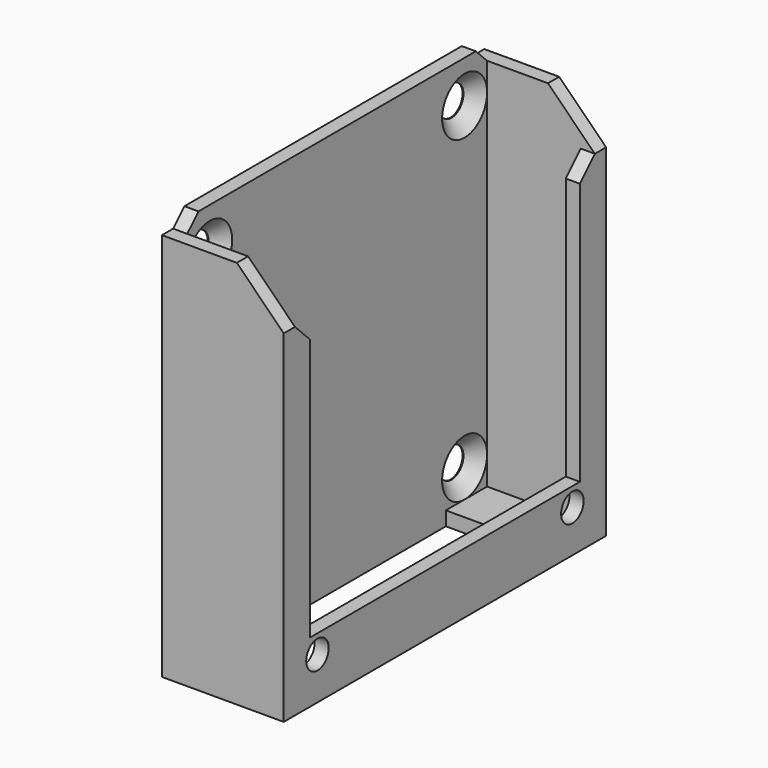
from build123d import *

# Parameters (mm, degrees)
CYLINDER004_R     = 1.5
CYLINDER004_DEPTH = 5
CYLINDER005_R     = 1.5
CYLINDER005_DEPTH = 5
BOX006_W          = 13
BOX006_H          = 1.5
BOX006_DEPTH      = 41.5
CHAMFER002_SIZE   = 5
BOX007_W          = 13
BOX007_H          = 1.5
BOX007_DEPTH      = 41.5
CHAMFER003_SIZE   = 5
CYLINDER001_R     = 1.6
CYLINDER001_DEPTH = 10
CYLINDER002_R     = 1.6
CYLINDER002_DEPTH = 10
CYLINDER_R        = 1.6
CYLINDER_DEPTH    = 10
CYLINDER003_R     = 1.6
CYLINDER003_DEPTH = 10
BOX002_W          = 7.5
BOX002_H          = 42
BOX002_DEPTH      = 43
CHAMFER_SIZE      = 1.4
BOX_W             = 1.5
BOX_H             = 40
BOX_DEPTH         = 43
CHAMFER001_SIZE   = 1.5
BOX005_W          = 1.5
BOX005_H          = 43
BOX005_DEPTH      = 6.5
BOX008_W          = 1.5
BOX008_H          = 3.5
BOX008_DEPTH      = 36.5
CHAMFER004_SIZE   = 2
BOX004_W          = 13
BOX004_H          = 7
BOX004_DEPTH      = 1.5
BOX003_W          = 13
BOX003_H          = 7
BOX003_DEPTH      = 1.5
BOX009_W          = 1.5
BOX009_H          = 3.5
BOX009_DEPTH      = 36.5
CHAMFER005_SIZE   = 2


with BuildPart() as cylinder004:
    # Cylinder004 → Cylinder004 (new body)
    with BuildSketch(Plane(origin=(9.5, 3, 4.5), x_dir=(0, 0, -1), z_dir=(1, 0, 0))):
        Circle(CYLINDER004_R)
    extrude(amount=CYLINDER004_DEPTH)


with BuildPart() as fusion002:
    # Cylinder005 → Cylinder005 (new body)
    with BuildSketch(Plane(origin=(9.5, 37, 4.5), x_dir=(0, 0, -1), z_dir=(1, 0, 0))):
        Circle(CYLINDER005_R)
    extrude(amount=CYLINDER005_DEPTH)

    # Fusion002: union Cylinder004
    add(cylinder004.part)


with BuildPart() as chamfer002:
    # Box006 → Box006 (new body)
    with BuildSketch(Plane(origin=(0, -1.5, 0), x_dir=(1, 0, 0), z_dir=(0, 0, 1))):
        with Locations((6.5, 0.75)):
            Rectangle(BOX006_W, BOX006_H)
    extrude(amount=BOX006_DEPTH)

    # Chamfer002
    chamfer002_edges = [chamfer002.edges().sort_by_distance(p)[0] for p in [
        (13, -0.75, 41.5),
    ]]
    chamfer(chamfer002_edges, length=CHAMFER002_SIZE)


with BuildPart() as chamfer003:
    # Box007 → Box007 (new body)
    with BuildSketch(Plane(origin=(0, 40, 0), x_dir=(1, 0, 0), z_dir=(0, 0, 1))):
        with Locations((6.5, 0.75)):
            Rectangle(BOX007_W, BOX007_H)
    extrude(amount=BOX007_DEPTH)

    # Chamfer003
    chamfer003_edges = [chamfer003.edges().sort_by_distance(p)[0] for p in [
        (13, 40.75, 41.5),
    ]]
    chamfer(chamfer003_edges, length=CHAMFER003_SIZE)


with BuildPart() as cylinder001:
    # Cylinder001 → Cylinder001 (new body)
    with BuildSketch(Plane(origin=(0, 37, 4.5), x_dir=(0, 0, -1), z_dir=(1, 0, 0))):
        Circle(CYLINDER001_R)
    extrude(amount=CYLINDER001_DEPTH)


with BuildPart() as cylinder002:
    # Cylinder002 → Cylinder002 (new body)
    with BuildSketch(Plane(origin=(0, 3, 38.5), x_dir=(0, 0, -1), z_dir=(1, 0, 0))):
        Circle(CYLINDER002_R)
    extrude(amount=CYLINDER002_DEPTH)


with BuildPart() as cylinder:
    # Cylinder → Cylinder (new body)
    with BuildSketch(Plane(origin=(0, 3, 4.5), x_dir=(0, 0, -1), z_dir=(1, 0, 0))):
        Circle(CYLINDER_R)
    extrude(amount=CYLINDER_DEPTH)


with BuildPart() as fusion:
    # Cylinder003 → Cylinder003 (new body)
    with BuildSketch(Plane(origin=(0, 37, 38.5), x_dir=(0, 0, -1), z_dir=(1, 0, 0))):
        Circle(CYLINDER003_R)
    extrude(amount=CYLINDER003_DEPTH)

    # Fusion: union Cylinder001, Cylinder002, Cylinder
    add(cylinder001.part)
    add(cylinder002.part)
    add(cylinder.part)


with BuildPart() as chamfer_body:
    # Box002 → Box002 (new body)
    with BuildSketch(Plane(origin=(0, -1, 0), x_dir=(1, 0, 0), z_dir=(0, 0, 1))):
        with Locations((3.75, 21)):
            Rectangle(BOX002_W, BOX002_H)
    extrude(amount=BOX002_DEPTH)

    # Cut001: cut Fusion
    add(fusion.part, mode=Mode.SUBTRACT)

    # Chamfer
    chamfer_edges = [chamfer_body.edges().sort_by_distance(p)[0] for p in [
        (7.5, 37, 40.1),
        (7.5, 3, 40.1),
        (7.5, 3, 6.1),
        (7.5, 37, 6.1),
    ]]
    chamfer(chamfer_edges, length=CHAMFER_SIZE)


with BuildPart() as chamfer_body_1:
    # Chamfer placement: moved
    add(chamfer_body.part.moved(Location((-6, 0, 0))))


with BuildPart() as chamfer001:
    # Box → Box (new body)
    with BuildSketch(Plane.XY):
        with Locations((0.75, 20)):
            Rectangle(BOX_W, BOX_H)
    extrude(amount=BOX_DEPTH)

    # Common: intersect Chamfer body
    add(chamfer_body_1.part, mode=Mode.INTERSECT)

    # Chamfer001
    chamfer001_edges = [chamfer001.edges().sort_by_distance(p)[0] for p in [
        (0.75, 0, 43),
        (0.75, 40, 43),
    ]]
    chamfer(chamfer001_edges, length=CHAMFER001_SIZE)


with BuildPart() as cube002:
    # Box005 → Box005 (new body)
    with BuildSketch(Plane(origin=(11.5, -1.5, 0), x_dir=(1, 0, 0), z_dir=(0, 0, 1))):
        with Locations((0.75, 21.5)):
            Rectangle(BOX005_W, BOX005_H)
    extrude(amount=BOX005_DEPTH)


with BuildPart() as chamfer004:
    # Box008 → Box008 (new body)
    with BuildSketch(Plane(origin=(11.5, -1.5, 0), x_dir=(1, 0, 0), z_dir=(0, 0, 1))):
        with Locations((0.75, 1.75)):
            Rectangle(BOX008_W, BOX008_H)
    extrude(amount=BOX008_DEPTH)

    # Chamfer004
    chamfer004_edges = [chamfer004.edges().sort_by_distance(p)[0] for p in [
        (12.25, 2, 36.5),
    ]]
    chamfer(chamfer004_edges, length=CHAMFER004_SIZE)


with BuildPart() as cube001:
    # Box004 → Box004 (new body)
    with BuildSketch(Plane(origin=(0, 34.5, 0), x_dir=(1, 0, 0), z_dir=(0, 0, 1))):
        with Locations((6.5, 3.5)):
            Rectangle(BOX004_W, BOX004_H)
    extrude(amount=BOX004_DEPTH)


with BuildPart() as cube:
    # Box003 → Box003 (new body)
    with BuildSketch(Plane(origin=(0, -1.5, 0), x_dir=(1, 0, 0), z_dir=(0, 0, 1))):
        with Locations((6.5, 3.5)):
            Rectangle(BOX003_W, BOX003_H)
    extrude(amount=BOX003_DEPTH)


with BuildPart() as cut002:
    # Box009 → Box009 (new body)
    with BuildSketch(Plane(origin=(11.5, 38, 0), x_dir=(1, 0, 0), z_dir=(0, 0, 1))):
        with Locations((0.75, 1.75)):
            Rectangle(BOX009_W, BOX009_H)
    extrude(amount=BOX009_DEPTH)

    # Chamfer005
    chamfer005_edges = [cut002.edges().sort_by_distance(p)[0] for p in [
        (12.25, 38, 36.5),
    ]]
    chamfer(chamfer005_edges, length=CHAMFER005_SIZE)

    # Fusion001: union Chamfer002, Chamfer003, Chamfer001, Cube002, Chamfer004, Cube001, Cube
    add(chamfer002.part)
    add(chamfer003.part)
    add(chamfer001.part)
    add(cube002.part)
    add(chamfer004.part)
    add(cube001.part)
    add(cube.part)

    # Cut002: cut Fusion002
    add(fusion002.part, mode=Mode.SUBTRACT)


solid = cut002.part
